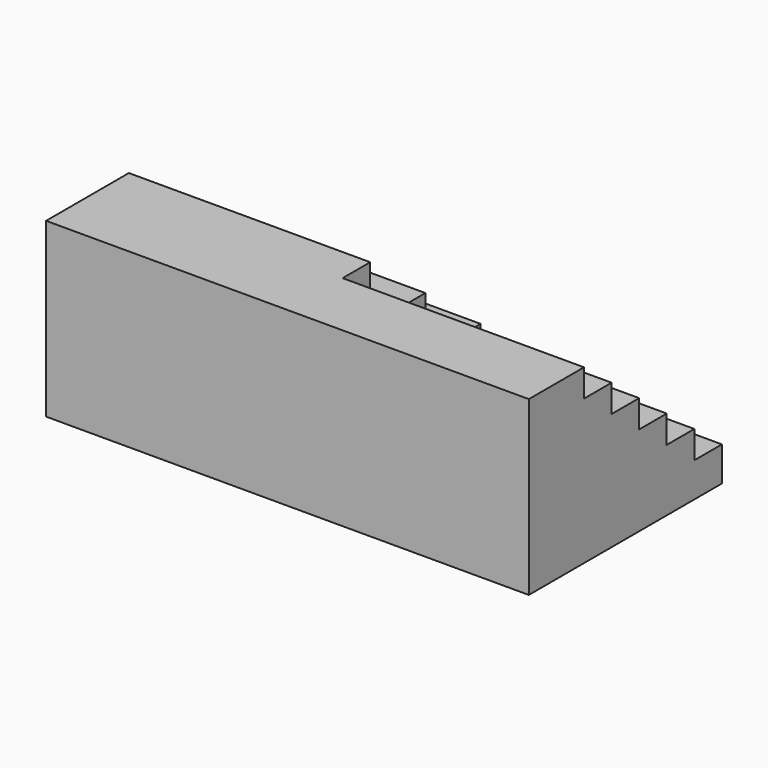
from build123d import *

# Parameters (mm, degrees)
F0_W      = 3500
F0_H      = 1500
F1_DEPTH  = 250
F2_W      = 1750
F2_H      = 250
F3_DEPTH  = 200
F4_W      = 1750
F4_H      = 250
F5_DEPTH  = 800
F6_W      = 1750
F6_H      = 250
F7_DEPTH  = 600
F8_W      = 1750
F8_H      = 250
F9_DEPTH  = 400
F10_W     = 1750
F10_H     = 250
F11_DEPTH = 200
F13_W     = 3500
F13_H     = 1250
F14_DEPTH = 250


with BuildPart() as f1:
    # F0 (on Top) → F1 (new body)
    with BuildSketch(Plane.XY):
        with Locations((1750, 750)):
            Rectangle(F0_W, F0_H)
    extrude(amount=F1_DEPTH)

    # F2 (on face) → F3 (join)
    with BuildSketch(Plane.XY.offset(250)):
        Polygon((0, 1250), (0, 0), (3500, 0), (3500, 1250), (1750, 1250), align=None)
        with Locations((875, 1375)):
            Rectangle(F2_W, F2_H)
    extrude(amount=F3_DEPTH)

    # F4 (on face) → F5 (join)
    with BuildSketch(Plane.XY.offset(450)):
        Polygon((0, 500), (0, 0), (1750, 0), (1750, 250), (1750, 500), align=None)
        with Locations((2625, 125)):
            Rectangle(F4_W, F4_H)
    extrude(amount=F5_DEPTH)

    # F6 (on face) → F7 (join)
    with BuildSketch(Plane.XY.offset(450)):
        with Locations((2625, 375)):
            Rectangle(F6_W, F6_H)
    extrude(amount=F7_DEPTH)

    # F8 (on face) → F9 (join)
    with BuildSketch(Plane.XY.offset(450)):
        Polygon((1750, 1000), (0, 1000), (0, 500), (1750, 500), (1750, 750), align=None)
        with Locations((2625, 625)):
            Rectangle(F8_W, F8_H)
    extrude(amount=F9_DEPTH)

    # F10 (on face) → F11 (join)
    with BuildSketch(Plane.XY.offset(450)):
        with Locations((2625, 875)):
            Rectangle(F10_W, F10_H)
    extrude(amount=F11_DEPTH)

    # F13 (on face) → F14 (join)
    with BuildSketch(Plane.XZ):
        with Locations((1750, 625)):
            Rectangle(F13_W, F13_H)
    extrude(amount=F14_DEPTH)


solid = f1.part
